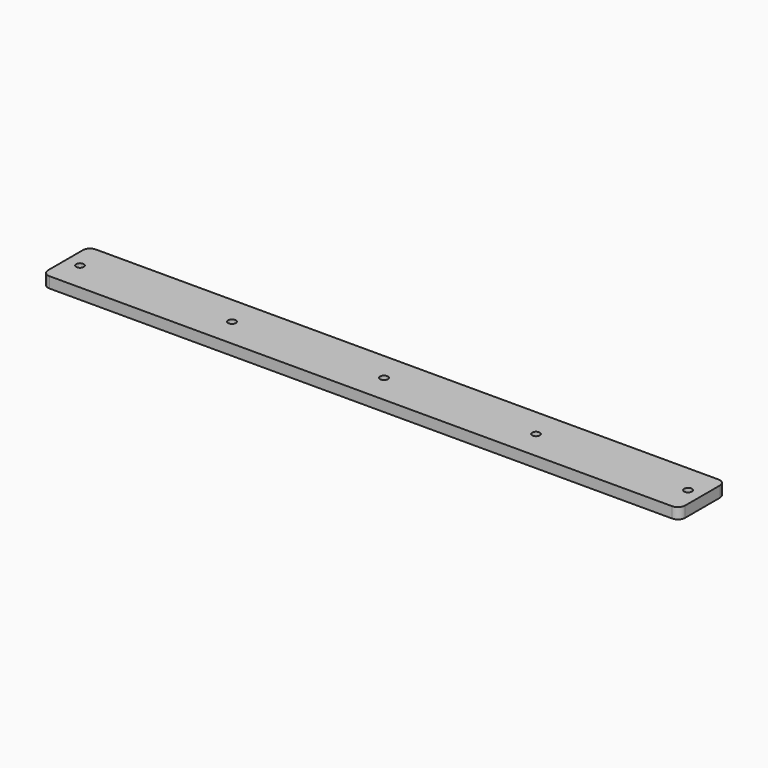
from build123d import *

# Parameters (mm, degrees)
F1_DEPTH       = 9.525
F2_D           = 6.7564
F2_CSINK_D     = 13.4874
F2_CSINK_ANGLE = 82


with BuildPart() as f1:
    # F0 (on Top) → F1 (new body)
    with BuildSketch(Plane.XY):
        with BuildLine():
            Line((-273.05, -25.4), (273.05, -25.4))
            ThreePointArc((273.05, -25.4), (277.5401280605, -23.5401280605), (279.4, -19.05))
            Line((279.4, -19.05), (279.4, 19.05))
            ThreePointArc((279.4, 19.05), (277.5401280605, 23.5401280605), (273.05, 25.4))
            Line((273.05, 25.4), (-273.05, 25.4))
            ThreePointArc((-273.05, 25.4), (-277.5401280605, 23.5401280605), (-279.4, 19.05))
            Line((-279.4, 19.05), (-279.4, -19.05))
            ThreePointArc((-279.4, -19.05), (-277.5401280605, -23.5401280605), (-273.05, -25.4))
        make_face()
    extrude(amount=F1_DEPTH)

    # F2 (through all)
    with Locations(Plane(origin=(0, 0, 0), x_dir=(1, 0, 0), z_dir=(0, 0, -1))):
        with Locations((266.7, 0), (133.35, 0), (0, 0), (-133.35, 0), (-266.7, 0)):
            CounterSinkHole(F2_D / 2, F2_CSINK_D / 2, counter_sink_angle=F2_CSINK_ANGLE)


solid = f1.part
